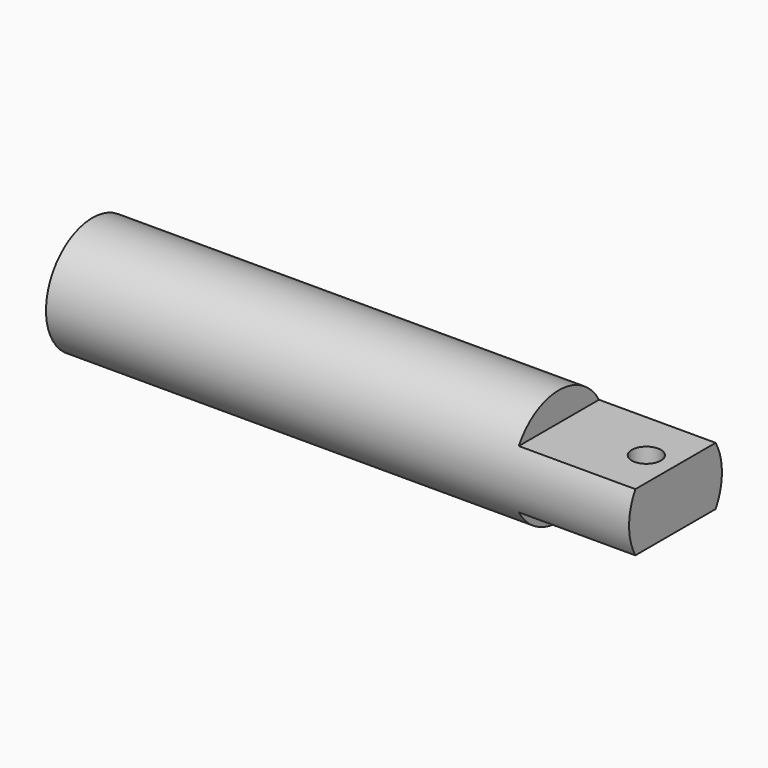
from build123d import *

# Parameters (mm, degrees)
F0_R     = 12.6365
F1_DEPTH = 127
F2_W     = 25.4
F2_H     = 6.523727
F2_H_2   = 6.2865
F3_DEPTH = 127
F4_DEPTH = 25.4
F7_R     = 3.175
F8_DEPTH = 25.4


with BuildPart() as f1:
    # F0 (on Right) → F1 (new body)
    with BuildSketch(Plane.YZ):
        Circle(F0_R)
    extrude(amount=F1_DEPTH)

    # F2 (on Front) → F3 (cut)
    with BuildSketch(Plane.XZ):
        with Locations((114.3, 9.611863)):
            Rectangle(F2_W, F2_H)
        with Locations((114.3, -9.49325)):
            Rectangle(F2_W, F2_H_2)
    extrude(amount=-F3_DEPTH, mode=Mode.SUBTRACT)

    # F2 (on Front) → F4 (cut)
    with BuildSketch(Plane.XZ):
        with Locations((114.3, 9.611863)):
            Rectangle(F2_W, F2_H)
        with Locations((114.3, -9.49325)):
            Rectangle(F2_W, F2_H_2)
    extrude(amount=F4_DEPTH, mode=Mode.SUBTRACT)

    # F5 (on Front) → F6 (revolve, cut)
    with BuildSketch(Plane.XZ):
        with BuildLine():
            Line((6.35, 0), (-19.05, 0))
            ThreePointArc((-19.05, 0), (-6.35, -12.7), (6.35, 0))
        make_face()
    revolve(axis=Axis((-6.35, 0, 0), (1, 0, 0)), mode=Mode.SUBTRACT)

    # F7 (on face) → F8 (cut)
    with BuildSketch(Plane.XY.offset(6.35)):
        with Locations((120.65, 0)):
            Circle(F7_R)
    extrude(amount=-F8_DEPTH, mode=Mode.SUBTRACT)


solid = f1.part
